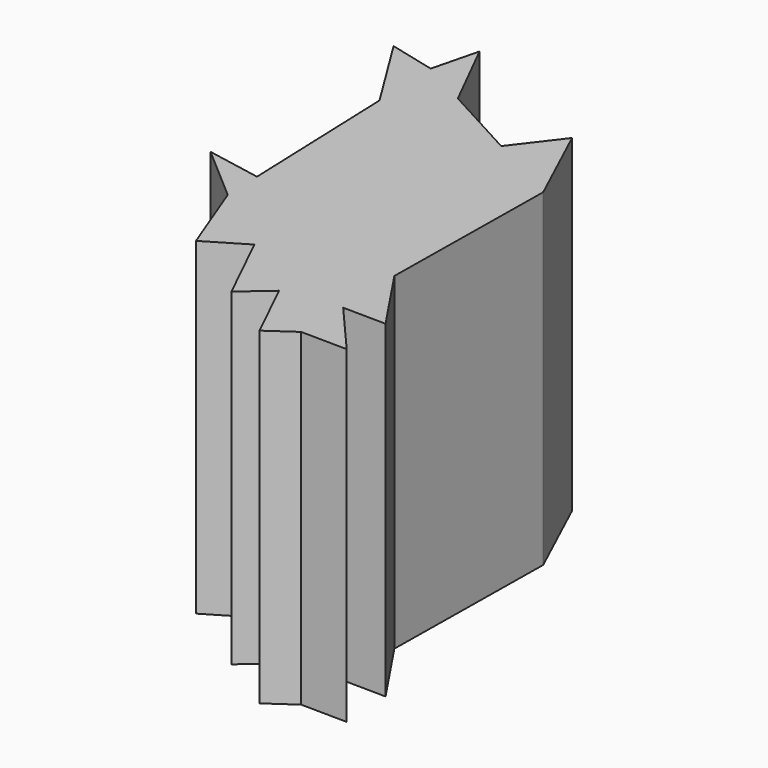
from build123d import *

# Parameters (mm, degrees)
F1_DEPTH = 254


with BuildPart() as f1:
    # F0 (on Top) → F1 (new body)
    with BuildSketch(Plane.XY):
        Polygon((-147.782792, -92.178449), (-146.70594, -121.784464), (-93.500725, -162.532108), (-44.075843, -200.384555), (-2.940414, -231.888456), (-1.797586, -141.762128), (0, 0), (-57.565849, 31.310931), (-116.964364, 63.618676), (-154.185936, 83.864048), (-152.300298, 32.021948), (-149.868549, -34.834455), (-147.822325, -91.091555), (-146.70594, -92.379923), align=None)
        Polygon((-190.108119, -84.259592), (-146.70594, -121.784464), (-147.782792, -92.178449), align=None)
        Polygon((-93.500725, -162.532108), (-146.70594, -121.784464), (-124.113187, -180.818781), align=None)
        Polygon((-44.075843, -200.384555), (-93.500725, -162.532108), (-65.873049, -219.272062), align=None)
        Polygon((-147.822325, -91.091555), (-147.782792, -92.178449), (-146.70594, -92.379923), align=None)
        Polygon((-2.940414, -231.888456), (-44.075843, -200.384555), (-20.746138, -248.582482), (0, -234.140396), align=None)
        Polygon((-1.797586, -141.762128), (-2.940414, -231.888456), (0, -234.140396), (35.582049, -234.591587), (0, -193.527976), (33.124767, -193.948008), align=None)
        Polygon((-190.108119, 92.880812), (-152.300298, 32.021948), (-154.185936, 83.864048), align=None)
        Polygon((-57.565849, 31.310931), (0, 0), (-30.732522, 66.347875), align=None)
        Polygon((-145.151658, 119.856003), (-154.185936, 83.864048), (-116.964364, 63.618676), align=None)
    extrude(amount=F1_DEPTH)


solid = f1.part
